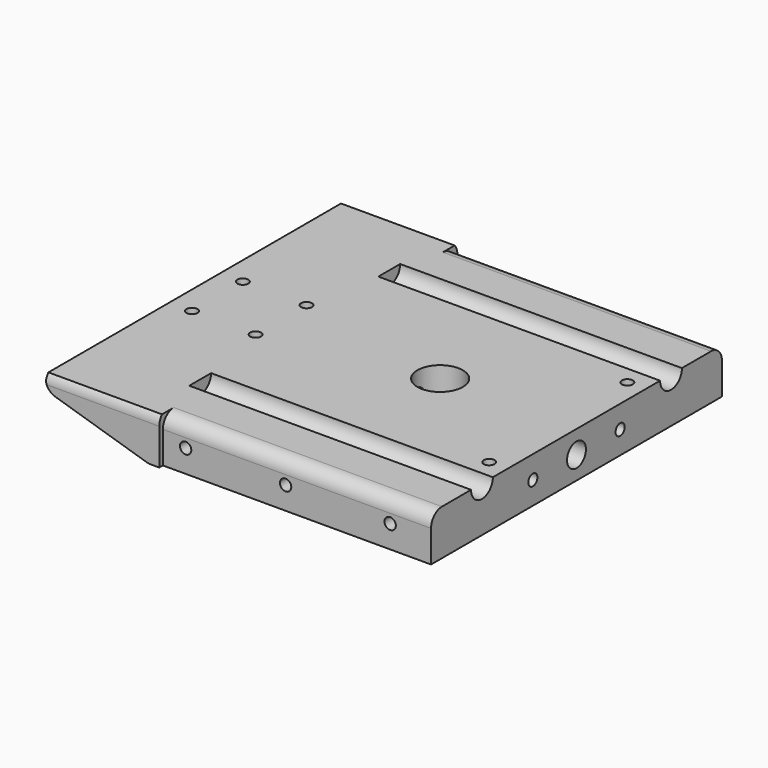
from build123d import *

# Parameters (mm, degrees)
CYLINDER284_R          = 3
CYLINDER284_DEPTH      = 62
CYLINDER285_R          = 3
CYLINDER285_DEPTH      = 62
CYLINDER280_R          = 1.2
CYLINDER280_DEPTH      = 4
CYLINDER281_R          = 1.2
CYLINDER281_DEPTH      = 4
CYLINDER282_R          = 1.2
CYLINDER282_DEPTH      = 8
CYLINDER283_R          = 1.2
CYLINDER283_DEPTH      = 8
CYLINDER453_R          = 1.2
CYLINDER453_DEPTH      = 4
CYLINDER452_R          = 1.2
CYLINDER452_DEPTH      = 4
CYLINDER457_R          = 1.25
CYLINDER457_DEPTH      = 15
CYLINDER456_R          = 1.25
CYLINDER456_DEPTH      = 15
BOX301_W               = 25
BOX301_H               = 82
BOX301_DEPTH           = 1
CYLINDER278_R          = 1.25
CYLINDER278_DEPTH      = 15
CYLINDER277_R          = 1.25
CYLINDER277_DEPTH      = 15
CYLINDER279_R          = 1.25
CYLINDER279_DEPTH      = 15
CYLINDER272_R          = 1.6
CYLINDER272_DEPTH      = 41
CYLINDER274_R          = 2.6
CYLINDER274_DEPTH      = 20
CYLINDER273_R          = 1.4
CYLINDER273_DEPTH      = 51
CYLINDER286_R          = 1.25
CYLINDER286_DEPTH      = 15
CYLINDER287_R          = 1.25
CYLINDER287_DEPTH      = 15
CYLINDER288_R          = 1.25
CYLINDER288_DEPTH      = 15
CYLINDER271_R          = 5
CYLINDER271_DEPTH      = 19
BOX215_W               = 30
BOX215_H               = 82
BOX215_DEPTH           = 10
BOX215_PLACEMENT_ANGLE = 17
BOX214_W               = 25
BOX214_H               = 62
BOX214_DEPTH           = 1.5
BOX213_W               = 25
BOX213_H               = 82
BOX213_DEPTH           = 11
FILLET085_R            = 3
BOX212_W               = 60
BOX212_H               = 80
BOX212_DEPTH           = 10
FILLET084_R            = 3
FILLET086_R            = 3


with BuildPart() as cylinder284:
    # Cylinder284 → Cylinder284 (new body)
    with BuildSketch(Plane(origin=(67, 5, 19), x_dir=(0, 0, -1), z_dir=(1, 0, 0))):
        Circle(CYLINDER284_R)
    extrude(amount=CYLINDER284_DEPTH)


with BuildPart() as fusion252:
    # Cylinder285 → Cylinder285 (new body)
    with BuildSketch(Plane(origin=(67, 57, 19), x_dir=(0, 0, -1), z_dir=(1, 0, 0))):
        Circle(CYLINDER285_R)
    extrude(amount=CYLINDER285_DEPTH)

    # Fusion252: union Cylinder284
    add(cylinder284.part)


with BuildPart() as cylinder280:
    # Cylinder280 → Cylinder280 (new body)
    with BuildSketch(Plane(origin=(50, 24, 15), x_dir=(1, 0, 0), z_dir=(0, 0, 1))):
        Circle(CYLINDER280_R)
    extrude(amount=CYLINDER280_DEPTH)


with BuildPart() as cylinder281:
    # Cylinder281 → Cylinder281 (new body)
    with BuildSketch(Plane(origin=(50, 38, 15), x_dir=(1, 0, 0), z_dir=(0, 0, 1))):
        Circle(CYLINDER281_R)
    extrude(amount=CYLINDER281_DEPTH)


with BuildPart() as cylinder282:
    # Cylinder282 → Cylinder282 (new body)
    with BuildSketch(Plane(origin=(64, 24, 11), x_dir=(1, 0, 0), z_dir=(0, 0, 1))):
        Circle(CYLINDER282_R)
    extrude(amount=CYLINDER282_DEPTH)


with BuildPart() as cylinder283:
    # Cylinder283 → Cylinder283 (new body)
    with BuildSketch(Plane(origin=(64, 38, 11), x_dir=(1, 0, 0), z_dir=(0, 0, 1))):
        Circle(CYLINDER283_R)
    extrude(amount=CYLINDER283_DEPTH)


with BuildPart() as cylinder453:
    # Cylinder453 → Cylinder453 (new body)
    with BuildSketch(Plane(origin=(125, 12, 15), x_dir=(1, 0, 0), z_dir=(0, 0, 1))):
        Circle(CYLINDER453_R)
    extrude(amount=CYLINDER453_DEPTH)


with BuildPart() as fusion406:
    # Cylinder452 → Cylinder452 (new body)
    with BuildSketch(Plane(origin=(125, 50, 15), x_dir=(1, 0, 0), z_dir=(0, 0, 1))):
        Circle(CYLINDER452_R)
    extrude(amount=CYLINDER452_DEPTH)

    # Fusion406: union Cylinder280, Cylinder281, Cylinder282, Cylinder283, Cylinder453
    add(cylinder280.part)
    add(cylinder281.part)
    add(cylinder282.part)
    add(cylinder283.part)
    add(cylinder453.part)


with BuildPart() as cylinder457:
    # Cylinder457 → Cylinder457 (new body)
    with BuildSketch(Plane(origin=(80, 43, 14), x_dir=(0, 0, -1), z_dir=(1, 0, 0))):
        Circle(CYLINDER457_R)
    extrude(amount=CYLINDER457_DEPTH)


with BuildPart() as fusion414:
    # Cylinder456 → Cylinder456 (new body)
    with BuildSketch(Plane(origin=(80, 19, 14), x_dir=(0, 0, -1), z_dir=(1, 0, 0))):
        Circle(CYLINDER456_R)
    extrude(amount=CYLINDER456_DEPTH)

    # Fusion413: union Cylinder457
    add(cylinder457.part)


with BuildPart() as fusion414_1:
    # Fusion413 placement: moved
    add(fusion414.part.moved(Location((34, 0, 0))))

    # Fusion414: union Fusion252, Fusion406
    add(fusion252.part)
    add(fusion406.part)


with BuildPart() as cube372:
    # Box301 → Box301 (new body)
    with BuildSketch(Plane(origin=(45, -10, 19), x_dir=(1, 0, 0), z_dir=(0, 0, 1))):
        with Locations((12.5, 41)):
            Rectangle(BOX301_W, BOX301_H)
    extrude(amount=BOX301_DEPTH)


with BuildPart() as cylinder278:
    # Cylinder278 → Cylinder278 (new body)
    with BuildSketch(Plane(origin=(6, 15, 14), x_dir=(1, 0, 0), z_dir=(0, -1, 0))):
        Circle(CYLINDER278_R)
    extrude(amount=CYLINDER278_DEPTH)


with BuildPart() as cylinder277:
    # Cylinder277 → Cylinder277 (new body)
    with BuildSketch(Plane(origin=(28, 15, 14), x_dir=(1, 0, 0), z_dir=(0, -1, 0))):
        Circle(CYLINDER277_R)
    extrude(amount=CYLINDER277_DEPTH)


with BuildPart() as fusion246:
    # Cylinder279 → Cylinder279 (new body)
    with BuildSketch(Plane(origin=(51, 15, 14), x_dir=(1, 0, 0), z_dir=(0, -1, 0))):
        Circle(CYLINDER279_R)
    extrude(amount=CYLINDER279_DEPTH)

    # Fusion246: union Cylinder278, Cylinder277
    add(cylinder278.part)
    add(cylinder277.part)


with BuildPart() as fusion246_1:
    # Fusion246 placement: moved
    add(fusion246.part.moved(Location((0, 56, 0))))


with BuildPart() as cylinder272:
    # Cylinder272 → Cylinder272 (new body)
    with BuildSketch(Plane(origin=(20, 31, 10), x_dir=(0, 0, -1), z_dir=(1, 0, 0))):
        Circle(CYLINDER272_R)
    extrude(amount=CYLINDER272_DEPTH)


with BuildPart() as cylinder274:
    # Cylinder274 → Cylinder274 (new body)
    with BuildSketch(Plane(origin=(41, 31, 10), x_dir=(0, 0, -1), z_dir=(1, 0, 0))):
        Circle(CYLINDER274_R)
    extrude(amount=CYLINDER274_DEPTH)


with BuildPart() as fusion249:
    # Cylinder273 → Cylinder273 (new body)
    with BuildSketch(Plane(origin=(10, 31, 10), x_dir=(0, 0, -1), z_dir=(1, 0, 0))):
        Circle(CYLINDER273_R)
    extrude(amount=CYLINDER273_DEPTH)

    # Fusion249: union Cylinder272, Cylinder274
    add(cylinder272.part)
    add(cylinder274.part)


with BuildPart() as fusion249_1:
    # Fusion249 placement: moved
    add(fusion249.part.moved(Location((-1, 0, 4))))


with BuildPart() as cylinder286:
    # Cylinder286 → Cylinder286 (new body)
    with BuildSketch(Plane(origin=(6, 15, 14), x_dir=(1, 0, 0), z_dir=(0, -1, 0))):
        Circle(CYLINDER286_R)
    extrude(amount=CYLINDER286_DEPTH)


with BuildPart() as cylinder287:
    # Cylinder287 → Cylinder287 (new body)
    with BuildSketch(Plane(origin=(28, 15, 14), x_dir=(1, 0, 0), z_dir=(0, -1, 0))):
        Circle(CYLINDER287_R)
    extrude(amount=CYLINDER287_DEPTH)


with BuildPart() as fusion254:
    # Cylinder288 → Cylinder288 (new body)
    with BuildSketch(Plane(origin=(51, 15, 14), x_dir=(1, 0, 0), z_dir=(0, -1, 0))):
        Circle(CYLINDER288_R)
    extrude(amount=CYLINDER288_DEPTH)

    # Fusion254: union Cylinder286, Cylinder287
    add(cylinder286.part)
    add(cylinder287.part)


with BuildPart() as fusion254_1:
    # Fusion254 placement: moved
    add(fusion254.part.moved(Location((0, -9, 0))))


with BuildPart() as fusion255:
    # Cylinder271 → Cylinder271 (new body)
    with BuildSketch(Plane(origin=(30, 31, 6), x_dir=(1, 0, 0), z_dir=(0, 0, 1))):
        Circle(CYLINDER271_R)
    extrude(amount=CYLINDER271_DEPTH)

    # Fusion255: union Fusion246, Fusion249, Fusion254
    add(fusion246_1.part)
    add(fusion249_1.part)
    add(fusion254_1.part)


with BuildPart() as cube295:
    # Box215 → Box215 (new body)
    with BuildSketch(Plane.XY):
        with Locations((15, 41)):
            Rectangle(BOX215_W, BOX215_H)
    extrude(amount=BOX215_DEPTH)


with BuildPart() as cube295_1:
    # Box215 placement: moved
    add(cube295.part.moved(Location((-29, -10, 7))).rotate(Axis((-29, -10, 7), (0, 1, 0)), BOX215_PLACEMENT_ANGLE))


with BuildPart() as cube294:
    # Box214 → Box214 (new body)
    with BuildSketch(Plane(origin=(-24, 0, 19), x_dir=(1, 0, 0), z_dir=(0, 0, 1))):
        with Locations((12.5, 31)):
            Rectangle(BOX214_W, BOX214_H)
    extrude(amount=BOX214_DEPTH)


with BuildPart() as fillet085:
    # Box213 → Box213 (new body)
    with BuildSketch(Plane(origin=(-24, -10, 9), x_dir=(1, 0, 0), z_dir=(0, 0, 1))):
        with Locations((12.5, 41)):
            Rectangle(BOX213_W, BOX213_H)
    extrude(amount=BOX213_DEPTH)

    # Cut222: cut Cube294
    add(cube294.part, mode=Mode.SUBTRACT)

    # Fillet085
    fillet085_edges = [fillet085.edges().sort_by_distance(p)[0] for p in [
        (-11.5, -10, 20),
        (-11.5, 72, 20),
    ]]
    fillet(fillet085_edges, radius=FILLET085_R)


with BuildPart() as fifth_wheel_plate_wide:
    # Box212 → Box212 (new body)
    with BuildSketch(Plane(origin=(0, -9, 9), x_dir=(1, 0, 0), z_dir=(0, 0, 1))):
        with Locations((30, 40)):
            Rectangle(BOX212_W, BOX212_H)
    extrude(amount=BOX212_DEPTH)

    # Fillet084
    fillet084_edges = [fifth_wheel_plate_wide.edges().sort_by_distance(p)[0] for p in [
        (30, -9, 19),
        (30, 71, 19),
    ]]
    fillet(fillet084_edges, radius=FILLET084_R)

    # Fusion253: union Fillet085
    add(fillet085.part)

    # Cut223: cut Cube295
    add(cube295_1.part, mode=Mode.SUBTRACT)

    # Cut224: cut Fusion255
    add(fusion255.part, mode=Mode.SUBTRACT)


with BuildPart() as fifth_wheel_plate_wide_1:
    # Cut224 placement: moved
    add(fifth_wheel_plate_wide.part.moved(Location((69, 0, 0))))

    # Fillet086
    fillet086_edges = [fifth_wheel_plate_wide_1.edges().sort_by_distance(p)[0] for p in [
        (67.661331, 31, 9),
        (45, 31, 15.928264),
    ]]
    fillet(fillet086_edges, radius=FILLET086_R)

    # Cut299: cut Cube372
    add(cube372.part, mode=Mode.SUBTRACT)

    # Cut304: cut Fusion414
    add(fusion414_1.part, mode=Mode.SUBTRACT)


solid = fifth_wheel_plate_wide_1.part
